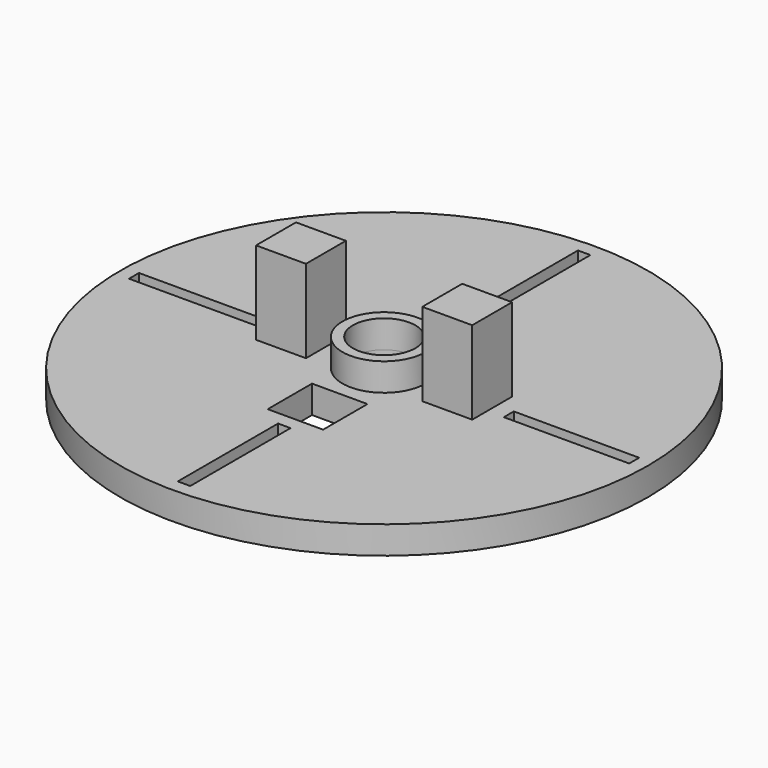
from build123d import *

# Parameters (mm, degrees)
F0_R     = 38.1
F1_DEPTH = 4
F2_R     = 4.5
F2_W     = 8
F2_H     = 8
F3_DEPTH = 4.001
F2_W_2   = 7.2
F2_H_2   = 7.2
F4_DEPTH = 12
F2_R_2   = 6
F5_DEPTH = 4
F6_W     = 1.8
F6_H     = 18.1
F6_W_2   = 18.1
F6_H_2   = 1.8
F7_DEPTH = 2


with BuildPart() as f1:
    # F0 (on Top) → F1 (new body)
    with BuildSketch(Plane.XY):
        Circle(F0_R)
    extrude(amount=F1_DEPTH)

    # F2 (on face) → F3 (cut, through all)
    with BuildSketch(Plane.XY.offset(4)):
        Circle(F2_R)
        with Locations((0, 12)):
            Rectangle(F2_W, F2_H)
        with Locations((0, -12)):
            Rectangle(F2_W, F2_H)
    extrude(amount=-F3_DEPTH, mode=Mode.SUBTRACT)

    # F2 (on face) → F4 (join)
    with BuildSketch(Plane.XY.offset(4)):
        with Locations((12, 0)):
            Rectangle(F2_W_2, F2_H_2)
        with Locations((-12, 0)):
            Rectangle(F2_W_2, F2_H_2)
    extrude(amount=F4_DEPTH)

    # F2 (on face) → F5 (join)
    with BuildSketch(Plane.XY.offset(4)):
        Circle(F2_R_2)
        Circle(F2_R, mode=Mode.SUBTRACT)
    extrude(amount=F5_DEPTH)

    # F6 (on face) → F7 (cut)
    with BuildSketch(Plane.XY.offset(4)):
        with Locations((0, 27.05)):
            Rectangle(F6_W, F6_H)
        with Locations((-27.05, 0)):
            Rectangle(F6_W_2, F6_H_2)
        with Locations((0, -27.05)):
            Rectangle(F6_W, F6_H)
        with Locations((27.05, 0)):
            Rectangle(F6_W_2, F6_H_2)
    extrude(amount=-F7_DEPTH, mode=Mode.SUBTRACT)


solid = f1.part
